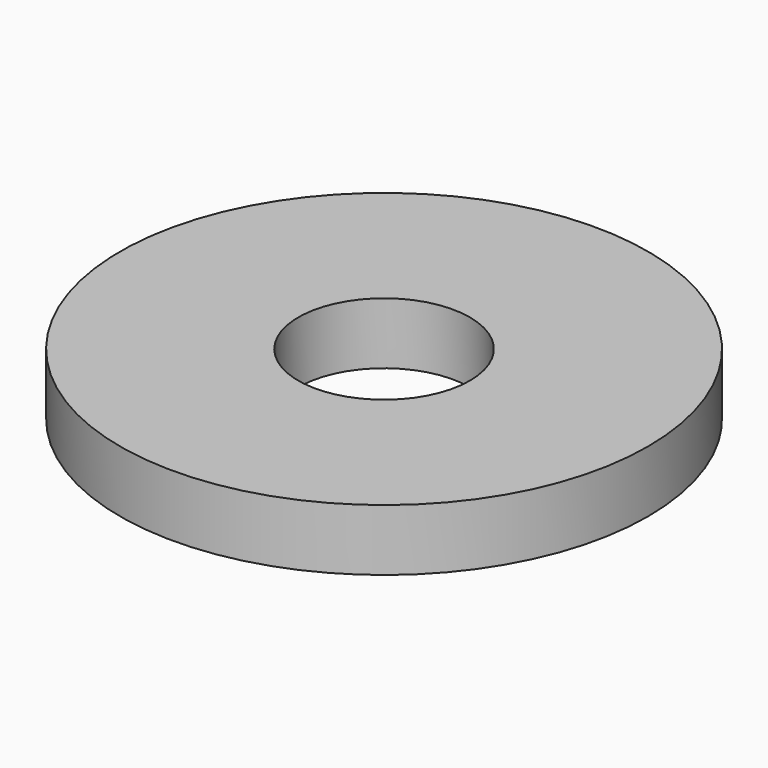
from build123d import *

# Parameters (mm, degrees)
SKETCH001_R  = 12
PAD_DEPTH    = 2.8
SKETCH_R     = 3.9
POCKET_DEPTH = 5


with BuildPart() as part:
    # Sketch001 → Pad (new body)
    with BuildSketch(Plane.XY):
        Circle(SKETCH001_R)
    extrude(amount=PAD_DEPTH)

    # Sketch (on Face2 of Pad) → Pocket (cut)
    with BuildSketch(Plane(origin=(0, 0, 0), x_dir=(1, 0, 0), z_dir=(0, 0, -1))):
        Circle(SKETCH_R)
    extrude(amount=-POCKET_DEPTH, mode=Mode.SUBTRACT)


solid = part.part
